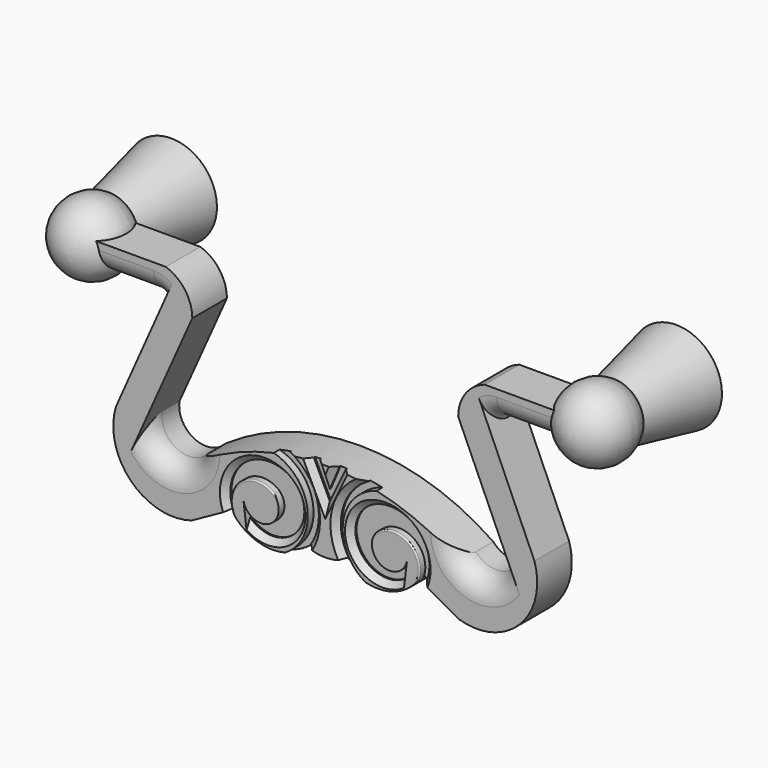
from build123d import *

# Parameters (mm, degrees)
PAD_DEPTH            = 6
POCKET_DEPTH         = 1
POCKET001_DEPTH      = 1
POCKET002_DEPTH      = 1
FILLET_R             = 3
CHAMFER_SIZE         = 0.8
FILLET001_R          = 0.2
BODY_ROLL_ANGLE      = 90
BODY_PLACEMENT_ANGLE = 180


with BuildPart() as part:
    # Sketch → Pad (new body)
    with BuildSketch(Plane.XY):
        with BuildLine():
            Line((-32, 1.78), (-32, -2.22))
            Line((-32, -2.22), (-23.78, -2.22))
            ThreePointArc((-22.7, -3.3), (-23.016325, -2.536325), (-23.78, -2.22))
            Line((-22.7, -3.3), (-29, -17.5))
            ThreePointArc((-29, -17.5), (-26.926635, -25.926635), (-18.5, -28))
            Line((-18.5, -28), (-13, -24.943349))
            ThreePointArc((-13, -24.943349), (-7.993994, -27.896258), (-2.5, -26))
            ThreePointArc((-2.5, -26), (0, -26.5), (2.5, -26))
            ThreePointArc((2.5, -26), (7.993994, -27.896258), (13, -24.943349))
            Line((13, -24.943349), (18.5, -28))
            ThreePointArc((18.5, -28), (26.926635, -25.926635), (29, -17.5))
            Line((29, -17.5), (22.7, -3.3))
            ThreePointArc((23.78, -2.22), (23.016325, -2.536325), (22.7, -3.3))
            Line((23.78, -2.22), (32, -2.22))
            Line((32, -2.22), (32, 1.78))
            Line((32, 1.78), (22.1, 1.78))
            ThreePointArc((22.1, 1.78), (19.443078, -0.166327), (18.429411, -3.3))
            Line((18.429411, -3.3), (25, -18))
            ThreePointArc((18.5, -21), (22.877635, -21.943209), (25, -18))
            ThreePointArc((18.5, -21), (0, -15.270044), (-18.5, -21))
            ThreePointArc((-25, -18), (-22.877635, -21.943209), (-18.5, -21))
            Line((-25, -18), (-18.429411, -3.3))
            ThreePointArc((-18.429411, -3.3), (-19.443078, -0.166327), (-22.1, 1.78))
            Line((-22.1, 1.78), (-32, 1.78))
        make_face()
    extrude(amount=PAD_DEPTH)

    # Sketch001 → Revolution (revolve)
    with BuildSketch(Plane(origin=(35, 0, 3), x_dir=(0, 0, -1), z_dir=(1, 0, 0))):
        with BuildLine():
            ThreePointArc((-3.28, -4.12), (1.918984, -4.454896), (4.62, 0))
            Line((-14.06, 0), (4.62, 0))
            Line((-14.06, -6.34), (-14.06, 0))
            Line((-3.28, -4.12), (-14.06, -6.34))
        make_face()
    revolution = revolve(axis=Axis((35, 0, 3), (0, 0, -1)))

    # Mirrored: Revolution across YZ
    add(revolution.mirror(Plane.YZ))

    # Sketch002 → Pocket (cut)
    with BuildSketch(Plane(origin=(0, 0, 0), x_dir=(1, 0, 0), z_dir=(0, 0, -1))):
        with BuildLine():
            ThreePointArc((6.39708, 18.22797), (12.772189, 20.102674), (12.55753, 26.744244))
            Line((12.011061, 26.43283), (12.55753, 26.744244))
            ThreePointArc((7.149002, 21.058733), (12.137847, 21.431672), (12.011061, 26.43283))
            ThreePointArc((11.332812, 23.208549), (7.795932, 24.945742), (7.149002, 21.058733))
            Line((11.332812, 23.208549), (11.051931, 25.525658))
            ThreePointArc((11.051931, 25.525658), (4.233252, 24.741572), (6.39708, 18.22797))
        make_face()
    pocket = extrude(amount=-POCKET_DEPTH, mode=Mode.SUBTRACT)

    # Sketch003 → Pocket001 (cut)
    with BuildSketch(Plane(origin=(0, 0, 0), x_dir=(1, 0, 0), z_dir=(0, 0, -1))):
        with BuildLine():
            ThreePointArc((11.281775, 28.076096), (2.434049, 21.707913), (12.171366, 16.806825))
            Line((11.045237, 15.298607), (12.171366, 16.806825))
            ThreePointArc((9.590348, 29.435227), (1.556796, 21.465268), (11.045237, 15.298607))
            Line((9.590348, 29.435227), (11.281775, 28.076096))
        make_face()
    pocket001 = extrude(amount=-POCKET001_DEPTH, mode=Mode.SUBTRACT)

    # Sketch004 → Pocket002 (cut)
    with BuildSketch(Plane(origin=(0, 0, 0), x_dir=(1, 0, 0), z_dir=(0, 0, -1))):
        Polygon((3.032535, 13.646601), (0, 19.974159), (0, 18.477093), (2.142952, 13.423265), align=None)
    pocket002 = extrude(amount=-POCKET002_DEPTH, mode=Mode.SUBTRACT)

    # Mirrored001: Pocket, Pocket001, Pocket002 across YZ
    add(pocket.mirror(Plane.YZ), mode=Mode.SUBTRACT)
    add(pocket001.mirror(Plane.YZ), mode=Mode.SUBTRACT)
    add(pocket002.mirror(Plane.YZ), mode=Mode.SUBTRACT)

    # Fillet
    fillet_edges = [part.edges().sort_by_distance(p)[0] for p in [
        (27.89, -2.22, 0),
        (-27.89, -2.22, 0),
        (-22.877635, -21.943209, 0),
        (22.877635, -21.943209, 0),
    ]]
    fillet(fillet_edges, radius=FILLET_R)

    # Chamfer
    chamfer_edges = [part.edges().sort_by_distance(p)[0] for p in [
        (12.187672, -19.421273, 0),
        (-12.187672, -19.421273, 0),
        (1.763092, -20.34, 0),
        (-1.763092, -20.34, 0),
        (-0.674047, -16.887456, 0),
        (0.674047, -16.887456, 0),
        (1.109207, -17.659736, 0),
        (-1.109207, -17.659736, 0),
    ]]
    chamfer(chamfer_edges, length=CHAMFER_SIZE)

    # Fillet001
    fillet001_edges = [part.edges().sort_by_distance(p)[0] for p in [
        (11.577842, -20.929016, 0),
        (-11.577842, -20.929016, 0),
    ]]
    fillet(fillet001_edges, radius=FILLET001_R)


with BuildPart() as part_1:
    # Body roll: moved
    add(part.part.rotate(Axis((0, 0, 0), (1, 0, 0)), BODY_ROLL_ANGLE))


with BuildPart() as part_2:
    # Body placement: moved
    add(part_1.part.moved(Location((241.000206, -34.982207, 76.042207))).rotate(Axis((241.000206, -34.982207, 76.042207), (0, 0, 1)), BODY_PLACEMENT_ANGLE))


solid = part_2.part
